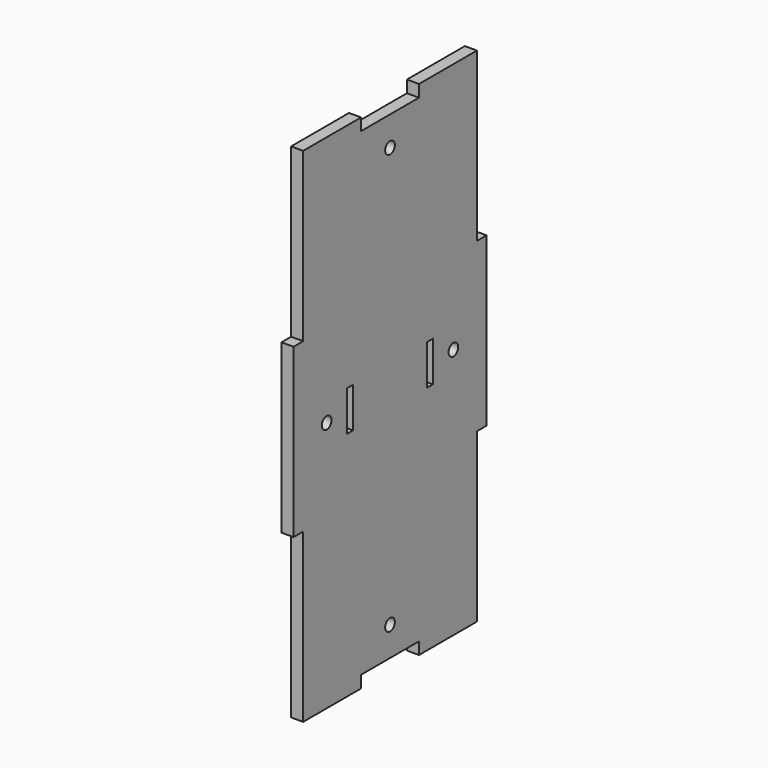
from build123d import *

# Parameters (mm, degrees)
F0_R     = 1.5
F0_W     = 1.8
F0_H     = 10
F1_DEPTH = 3


with BuildPart() as f1:
    # F0 (on Right) → F1 (new body)
    with BuildSketch(Plane.YZ):
        with BuildLine():
            Line((-27, 20.833333), (-30, 20.833333))
            Line((-30, 20.833333), (-30, -20.833333))
            Line((-30, -20.833333), (-27, -20.833333))
            Line((-27, -20.833333), (-27, -62.5))
            Line((-27, -62.5), (-18, -62.5))
            Line((-18, -62.5), (-9, -62.5))
            Line((-9, -62.5), (-9, -59.5))
            Line((-9, -59.5), (0, -59.5))
            Line((0, -59.5), (0, -53.7))
            ThreePointArc((0, -53.7), (-1.5, -52.2), (0, -50.7))
            Line((0, -50.7), (0, 50.7))
            ThreePointArc((0, 50.7), (-1.5, 52.2), (0, 53.7))
            Line((0, 53.7), (0, 59.5))
            Line((0, 59.5), (-9, 59.5))
            Line((-9, 59.5), (-9, 62.5))
            Line((-9, 62.5), (-18, 62.5))
            Line((-18, 62.5), (-27, 62.5))
            Line((-27, 62.5), (-27, 20.833333))
        make_face()
        with Locations((-19.7, 0)):
            Circle(F0_R, mode=Mode.SUBTRACT)
        with Locations((-12.4, 0)):
            Rectangle(F0_W, F0_H, mode=Mode.SUBTRACT)
        with BuildLine():
            Line((9, 59.5), (0, 59.5))
            Line((0, 59.5), (0, 53.7))
            ThreePointArc((0, 53.7), (1.5, 52.2), (0, 50.7))
            Line((0, 50.7), (0, -50.7))
            ThreePointArc((0, -50.7), (1.5, -52.2), (0, -53.7))
            Line((0, -53.7), (0, -59.5))
            Line((0, -59.5), (9, -59.5))
            Line((9, -59.5), (9, -62.5))
            Line((9, -62.5), (18, -62.5))
            Line((18, -62.5), (27, -62.5))
            Line((27, -62.5), (27, -20.833333))
            Line((27, -20.833333), (30, -20.833333))
            Line((30, -20.833333), (30, 20.833333))
            Line((30, 20.833333), (27, 20.833333))
            Line((27, 20.833333), (27, 62.5))
            Line((27, 62.5), (18, 62.5))
            Line((18, 62.5), (9, 62.5))
            Line((9, 62.5), (9, 59.5))
        make_face()
        with Locations((12.4, 0)):
            Rectangle(F0_W, F0_H, mode=Mode.SUBTRACT)
        with Locations((19.7, 0)):
            Circle(F0_R, mode=Mode.SUBTRACT)
    extrude(amount=F1_DEPTH)


solid = f1.part
